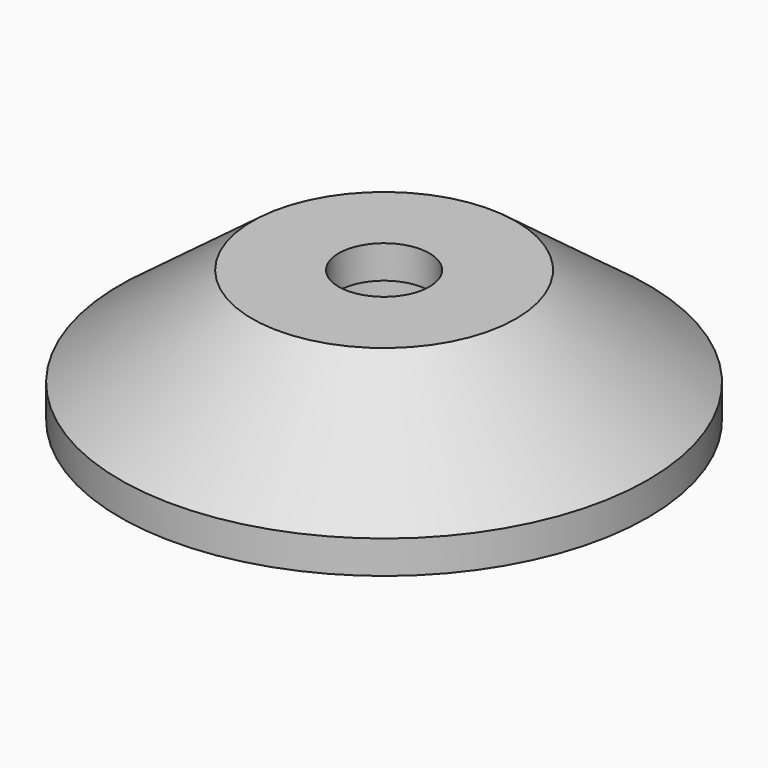
from build123d import *

# Parameters (mm, degrees)
F0_R           = 50.8
F1_DEPTH       = 6.35
F3_R           = 25.4
F1_FACE_R      = 50.8
F6_D           = 17.4625
F6_CBORE_D     = 30.1625
F6_CBORE_DEPTH = 19.05


with BuildPart() as f1:
    # F0 (on Top) → F1 (new body)
    with BuildSketch(Plane.XY):
        Circle(F0_R)
    extrude(amount=F1_DEPTH)

    # F3 (on offset) → F4 section 0
    with BuildSketch(Plane.XY.offset(25.4)):
        Circle(F3_R)
    # F1_face (on face) → F4 section 1
    with BuildSketch(Plane.XY.offset(6.35)):
        Circle(F1_FACE_R)
    loft()

    # F6 (through all)
    with Locations(Plane(origin=(0, 0, 0), x_dir=(1, 0, 0), z_dir=(0, 0, -1))):
        with Locations((0, 0)):
            CounterBoreHole(F6_D / 2, F6_CBORE_D / 2, F6_CBORE_DEPTH)


solid = f1.part
